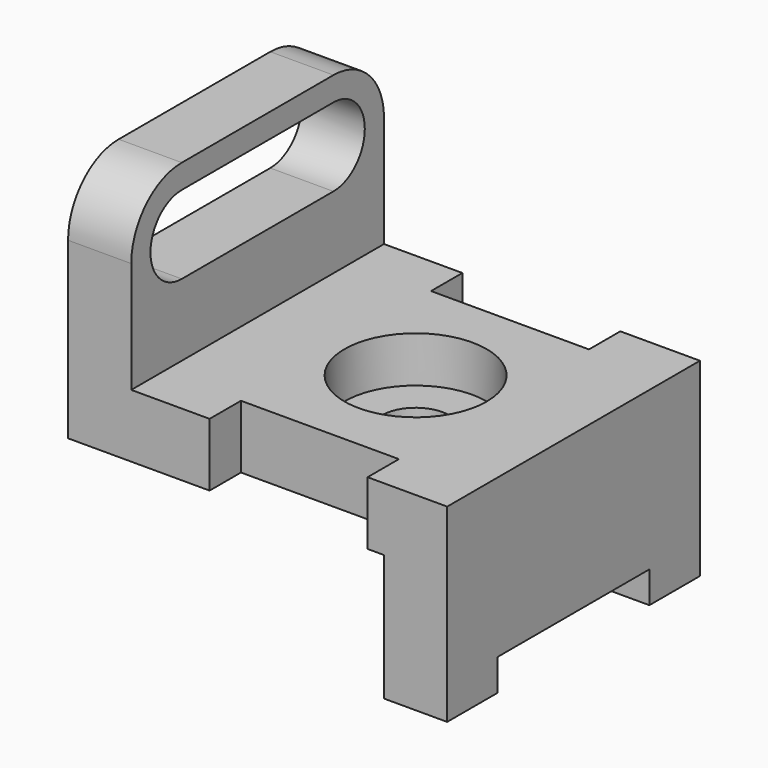
from build123d import *

# Parameters (mm, degrees)
F1_DEPTH  = 63.5
F2_W      = 31.75
F2_H      = 7.874
F3_DEPTH  = 38.101
F4_W      = 38.1
F4_H      = 6.35
F5_DEPTH  = 76.201
F7_DEPTH  = 12.7
F8_R      = 14.2875
F9_DEPTH  = 9.2456
F10_R     = 6.7437
F11_DEPTH = 25.4


with BuildPart() as f1:
    # F0 (on Front) → F1 (new body)
    with BuildSketch(Plane.XZ):
        Polygon((76.2, 12.7), (0, 12.7), (0, 0), (63.5, 0), (63.5, -25.4), (76.2, -25.4), align=None)
    extrude(amount=F1_DEPTH)

    # F2 (on face) → F3 (cut, through all)
    with BuildSketch(Plane.XY.offset(12.7)):
        with Locations((44.323, -59.563)):
            Rectangle(F2_W, F2_H)
        with Locations((44.323, -3.937)):
            Rectangle(F2_W, F2_H)
    extrude(amount=-F3_DEPTH, mode=Mode.SUBTRACT)

    # F4 (on face) → F5 (cut, through all)
    with BuildSketch(Plane.YZ.offset(76.2)):
        with Locations((-31.75, -22.225)):
            Rectangle(F4_W, F4_H)
    extrude(amount=-F5_DEPTH, mode=Mode.SUBTRACT)

    # F6 (on Right) → F7 (join)
    with BuildSketch(Plane.YZ):
        with BuildLine():
            Line((-63.5, 35.052), (-63.5, 12.7))
            Line((-63.5, 12.7), (0, 12.7))
            Line((0, 12.7), (0, 35.052))
            ThreePointArc((0, 35.052), (-3.719744, 44.032256), (-12.7, 47.752))
            Line((-12.7, 47.752), (-31.75, 47.752))
            Line((-31.75, 47.752), (-50.8, 47.752))
            ThreePointArc((-50.8, 47.752), (-59.780256, 44.032256), (-63.5, 35.052))
        make_face()
        with BuildLine():
            ThreePointArc((-50.8, 27.178), (-58.674, 35.052), (-50.8, 42.926))
            Line((-50.8, 42.926), (-12.7, 42.926))
            ThreePointArc((-12.7, 42.926), (-4.826, 35.052), (-12.7, 27.178))
            Line((-12.7, 27.178), (-50.8, 27.178))
        make_face(mode=Mode.SUBTRACT)
    extrude(amount=F7_DEPTH)

    # F8 (on face) → F9 (cut)
    with BuildSketch(Plane.XY.offset(12.7)):
        with Locations((44.45, -31.75)):
            Circle(F8_R)
    extrude(amount=-F9_DEPTH, mode=Mode.SUBTRACT)

    # F10 (on face) → F11 (cut)
    with BuildSketch(Plane.XY.offset(3.4544)):
        with Locations((44.45, -31.75)):
            Circle(F10_R)
    extrude(amount=-F11_DEPTH, mode=Mode.SUBTRACT)


solid = f1.part
